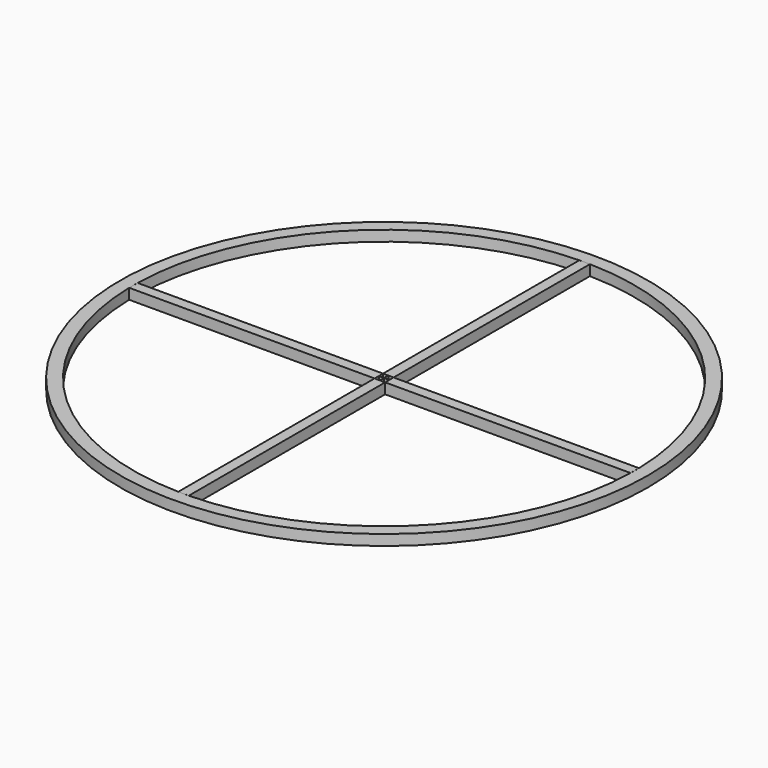
from build123d import *

# Parameters (mm, degrees)
F0_R     = 50
F1_DEPTH = 2


with BuildPart() as f1:
    # F0 (on Top) → F1 (new body)
    with BuildSketch(Plane.XY):
        Circle(F0_R)
        with BuildLine():
            ThreePointArc((47.4894725176, 1), (47.4973680565, 0.5000277062), (47.5, 0))
            ThreePointArc((47.5, 0), (47.4973680565, -0.5000277062), (47.4894725176, -1))
            ThreePointArc((47.4894725176, -1), (33.5875721064, -33.5875721064), (1, -47.4894725176))
            ThreePointArc((1, -47.4894725176), (0.5000277062, -47.4973680565), (0, -47.5))
            ThreePointArc((0, -47.5), (-0.5000277062, -47.4973680565), (-1, -47.4894725176))
            ThreePointArc((-1, -47.4894725176), (-33.5875721064, -33.5875721064), (-47.4894725176, -1))
            ThreePointArc((-47.4894725176, -1), (-47.4973680565, -0.5000277062), (-47.5, 0))
            ThreePointArc((-47.5, 0), (-47.4973680565, 0.5000277062), (-47.4894725176, 1))
            ThreePointArc((-47.4894725176, 1), (-33.5875721064, 33.5875721064), (-1, 47.4894725176))
            ThreePointArc((-1, 47.4894725176), (-0.5000277062, 47.4973680565), (0, 47.5))
            ThreePointArc((0, 47.5), (0.5000277062, 47.4973680565), (1, 47.4894725176))
            ThreePointArc((1, 47.4894725176), (33.5875721064, 33.5875721064), (47.4894725176, 1))
        make_face(mode=Mode.SUBTRACT)
    extrude(amount=F1_DEPTH)


with BuildPart() as f1b:
    # F0 (on Top) → F1, piece 2 (new body)
    with BuildSketch(Plane.XY):
        Polygon((-0.0105274824, -0.0105274824), (-0.0105274824, 0), (-47.4894725176, 0), (-47.4894725176, -1), (-1, -1), (-1, -0.0105274824), align=None)
        Polygon((-47.4894725176, 0), (-0.0105274824, 0), (-0.0105274824, 0.0105274824), (-1, 0.0105274824), (-1, 1), (-47.4894725176, 1), align=None)
    extrude(amount=F1_DEPTH)


with BuildPart() as f1c:
    # F0 (on Top) → F1, piece 3 (new body)
    with BuildSketch(Plane.XY):
        Polygon((0, 0.0105274824), (0, 47.4894725176), (-1, 47.4894725176), (-1, 1), (-0.0105274824, 1), (-0.0105274824, 0.0105274824), align=None)
        Polygon((1, 1), (1, 47.4894725176), (0, 47.4894725176), (0, 0.0105274824), (0.0105274824, 0.0105274824), (0.0105274824, 1), align=None)
    extrude(amount=F1_DEPTH)


with BuildPart() as f1d:
    # F0 (on Top) → F1, piece 4 (new body)
    with BuildSketch(Plane.XY):
        Polygon((1, -1), (47.4894725176, -1), (47.4894725176, 0), (0.0105274824, 0), (0.0105274824, -0.0105274824), (1, -0.0105274824), align=None)
        Polygon((47.4894725176, 0), (47.4894725176, 1), (1, 1), (1, 0.0105274824), (0.0105274824, 0.0105274824), (0.0105274824, 0), align=None)
    extrude(amount=F1_DEPTH)


with BuildPart() as f1e:
    # F0 (on Top) → F1, piece 5 (new body)
    with BuildSketch(Plane.XY):
        Polygon((0, -47.4894725176), (1, -47.4894725176), (1, -1), (0.0105274824, -1), (0.0105274824, -0.0105274824), (0, -0.0105274824), align=None)
        Polygon((-1, -47.4894725176), (0, -47.4894725176), (0, -0.0105274824), (-0.0105274824, -0.0105274824), (-0.0105274824, -1), (-1, -1), align=None)
    extrude(amount=F1_DEPTH)


solid = Compound([f1.part, f1b.part, f1c.part, f1d.part, f1e.part])
